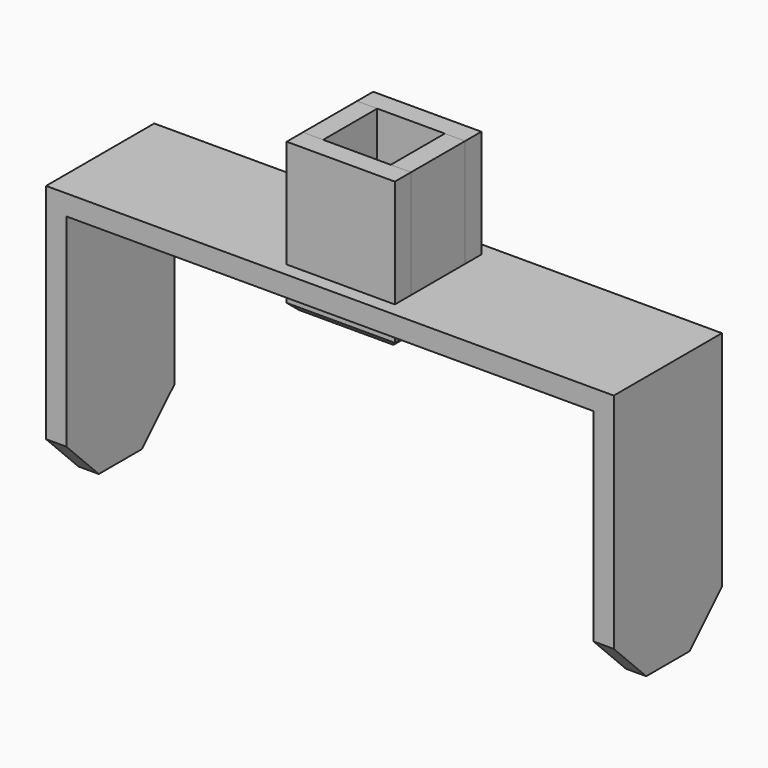
from build123d import *

# Parameters (mm, degrees)
F0_W      = 495.3
F0_H      = 127
F0_W_2    = 19.05
F1_DEPTH  = 19.05
F2_DEPTH  = 228.6
F3_SIZE   = 38.1
F4_W      = 63.5
F4_H      = 63.5
F4_R      = 19.05
F5_DEPTH  = 19.05
F6_DEPTH  = 101.6
F4_W_2    = 19.05
F7_DEPTH  = 101.6
F8_R      = 19.05
F9_DEPTH  = 19.05
F10_DEPTH = 19.05
F11_SIZE  = 6.35


with BuildPart() as f1:
    # F0 (on Top) → F1 (new body)
    with BuildSketch(Plane.XY):
        Rectangle(F0_W, F0_H)
        with Locations((-257.175, 0)):
            Rectangle(F0_W_2, F0_H)
        with Locations((257.175, 0)):
            Rectangle(F0_W_2, F0_H)
    extrude(amount=F1_DEPTH)

    # F0 (on Top) → F2 (join)
    with BuildSketch(Plane.XY):
        with Locations((-257.175, 0)):
            Rectangle(F0_W_2, F0_H)
        with Locations((257.175, 0)):
            Rectangle(F0_W_2, F0_H)
    extrude(amount=-F2_DEPTH)

    # F3
    f3_edges = [f1.edges().sort_by_distance(p)[0] for p in [
        (-257.175, -63.5, -228.6),
        (-257.175, 63.5, -228.6),
        (257.175, -63.5, -228.6),
        (257.175, 63.5, -228.6),
    ]]
    chamfer(f3_edges, length=F3_SIZE)

    # F8 (on face) → F9 (cut)
    with BuildSketch(Plane.XY):
        Circle(F8_R)
    extrude(amount=F9_DEPTH, mode=Mode.SUBTRACT)

    # F8 (on face) → F10 (join)
    with BuildSketch(Plane.XY):
        Polygon((-50.8, -31.75), (-50.8, -50.8), (50.8, -50.8), (50.8, -31.75), (50.8, 31.75), (50.8, 50.8), (-50.8, 50.8), (-50.8, 31.75), align=None)
        Circle(F8_R, mode=Mode.SUBTRACT)
        Circle(F8_R)
    extrude(amount=-F10_DEPTH)

    # F11
    f11_edges = [f1.edges().sort_by_distance(p)[0] for p in [
        (0, -50.8, -19.05),
        (50.8, 0, -19.05),
        (0, 50.8, -19.05),
        (-50.8, 0, -19.05),
    ]]
    chamfer(f11_edges, length=F11_SIZE)


with BuildPart() as f5:
    # F4 (on face) → F5 (new body)
    with BuildSketch(Plane.XY.offset(19.05)):
        Rectangle(F4_W, F4_H)
        Circle(F4_R, mode=Mode.SUBTRACT)
    extrude(amount=F5_DEPTH)


with BuildPart() as f6:
    # F4 (on face) → F6 (new body)
    with BuildSketch(Plane.XY.offset(19.05)):
        Polygon((-31.75, 31.75), (31.75, 31.75), (50.8, 31.75), (50.8, 50.8), (-50.8, 50.8), (-50.8, 31.75), align=None)
        Polygon((50.8, -31.75), (31.75, -31.75), (-31.75, -31.75), (-50.8, -31.75), (-50.8, -50.8), (50.8, -50.8), align=None)
    extrude(amount=F6_DEPTH)


with BuildPart() as f7:
    # F4 (on face) → F7 (new body)
    with BuildSketch(Plane.XY.offset(19.05)):
        with Locations((-41.275, 0)):
            Rectangle(F4_W_2, F4_H)
        with Locations((41.275, 0)):
            Rectangle(F4_W_2, F4_H)
    extrude(amount=F7_DEPTH)


solid = Compound([f1.part, f5.part, f6.part, f7.part])
